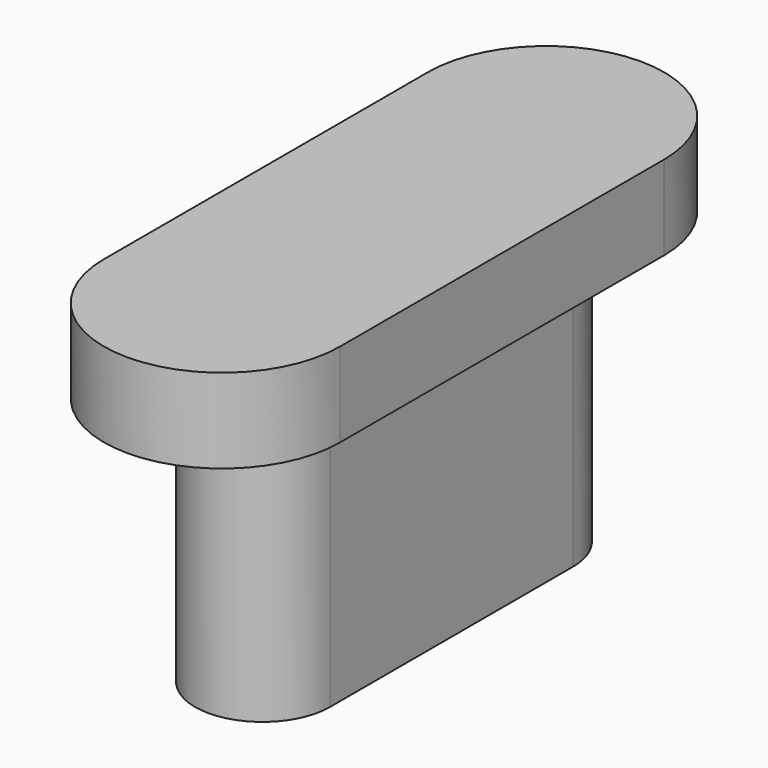
from build123d import *

# Parameters (mm, degrees)
EXTRUDE001_DEPTH = 5
EXTRUDE_DEPTH    = 16


with BuildPart() as cap_top_extrude:
    # Sketch006 → Extrude001 (new body)
    with BuildSketch(Plane.XY):
        with BuildLine():
            ThreePointArc((-7, -12), (0, -19), (7, -12))
            Line((7, -12), (7, 12))
            ThreePointArc((7, 12), (0, 19), (-7, 12))
            Line((-7, -12), (-7, 12))
        make_face()
    extrude(amount=EXTRUDE001_DEPTH)


with BuildPart() as cap_top_extrude_1:
    # Extrude001 placement: moved
    add(cap_top_extrude.part.moved(Location((0, 0, 16))))


with BuildPart() as cap_fuse:
    # Sketch005 → Extrude (new body)
    with BuildSketch(Plane.XY):
        with BuildLine():
            ThreePointArc((-4, -9), (0, -13), (4, -9))
            Line((4, -9), (4, 9))
            ThreePointArc((4, 9), (0, 13), (-4, 9))
            Line((-4, -9), (-4, 9))
        make_face()
    extrude(amount=EXTRUDE_DEPTH)

    # Fusion: union cap_top_extrude
    add(cap_top_extrude_1.part)


solid = cap_fuse.part
